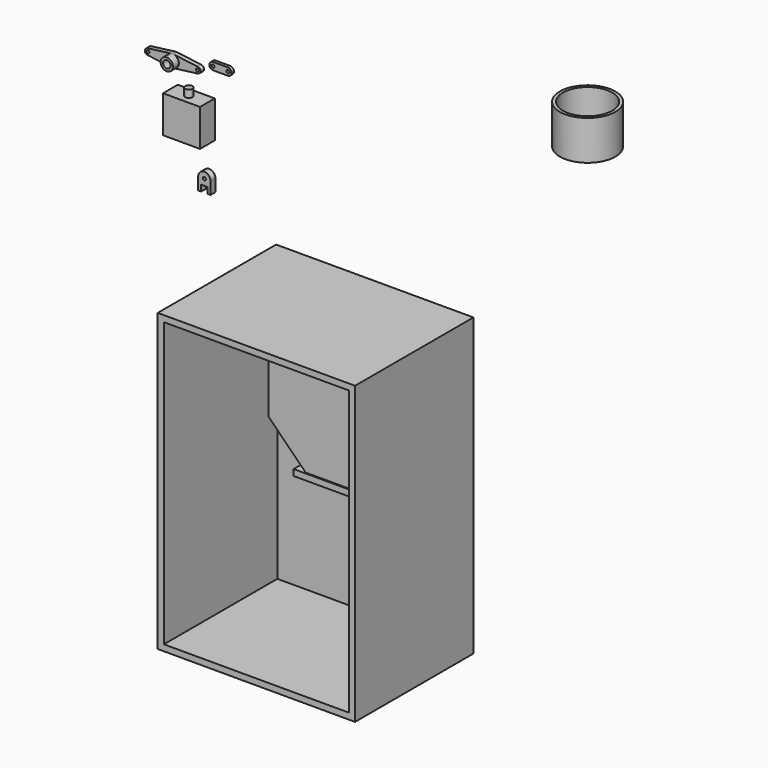
from build123d import *

# Parameters (mm, degrees)
F0_W      = 101.6
F0_H      = 152.4
F1_DEPTH  = 76.2
F2_T      = -3.175
F4_DEPTH  = 25.4
F5_T      = -2.54
F6_W      = 38.1
F6_H      = 3.175
F7_DEPTH  = 24.384
F9_DEPTH  = 3.175
F10_R     = 14.2875
F10_R_2   = 12.7
F11_DEPTH = 20.32
F12_R     = 0.79375
F13_DEPTH = 3.175
F14_W     = 19.05
F14_H     = 19.05
F15_DEPTH = 9.525
F16_R     = 1.905
F17_DEPTH = 3.81
F19_DEPTH = 2.286
F20_D     = 1.524
F21_R     = 3.175
F21_R_2   = 1.905
F22_DEPTH = 3.81
F23_R     = 0.79375
F24_DEPTH = 1.5875


with BuildPart() as f1:
    # F0 (on Front) → F1 (new body)
    with BuildSketch(Plane.XZ):
        with Locations((50.8, -76.2)):
            Rectangle(F0_W, F0_H)
    extrude(amount=F1_DEPTH)

    # F2
    f2_openings = [f1.faces().sort_by_distance(p)[0] for p in [
        (50.8, -76.2, -76.2),
    ]]
    offset(amount=F2_T, openings=f2_openings)


with BuildPart() as f4:
    # F3 (on face) → F4 (new body)
    with BuildSketch(Plane.XZ.offset(3.175)):
        Polygon((82.55, -28.575), (19.05, -28.575), (19.05, -60.325), (38.1, -79.375), (63.5, -79.375), (82.55, -60.325), align=None)
    extrude(amount=F4_DEPTH)

    # F5
    f5_openings = [f4.faces().sort_by_distance(p)[0] for p in [
        (50.8, -15.875, -28.575),
        (50.8, -15.875, -79.375),
    ]]
    offset(amount=F5_T, openings=f5_openings)


with BuildPart() as f7:
    # F6 (on face) → F7 (new body)
    with BuildSketch(Plane.XZ.offset(3.175)):
        with Locations((50.1062323436, -82.0561125875)):
            Rectangle(F6_W, F6_H)
    extrude(amount=F7_DEPTH)

    # F8 (on face) → F9 (cut, through all)
    with BuildSketch(Plane(origin=(0, 0, -83.6436125875), x_dir=(1, 0, 0), z_dir=(0, 0, -1))):
        Polygon((69.1562323436, 3.175), (69.1562323436, 27.559), (59.6312323436, 15.367), align=None)
    extrude(amount=-F9_DEPTH, mode=Mode.SUBTRACT)


with BuildPart() as f11:
    # F10 (on Top) → F11 (new body)
    with BuildSketch(Plane.XY):
        with Locations((44.4413982332, 144.9456810951)):
            Circle(F10_R)
        with Locations((44.4413982332, 144.9456810951)):
            Circle(F10_R_2, mode=Mode.SUBTRACT)
    extrude(amount=F11_DEPTH)


with BuildPart() as f13:
    # F12 (on Front) → F13 (new body)
    with BuildSketch(Plane.XZ):
        with BuildLine():
            Line((-37.6109989196, 19.9329089373), (-37.6109989196, 13.5829089373))
            Line((-37.6109989196, 13.5829089373), (-36.0234989196, 13.5829089373))
            Line((-36.0234989196, 13.5829089373), (-36.0234989196, 16.7579089373))
            Line((-36.0234989196, 16.7579089373), (-32.8484989196, 16.7579089373))
            Line((-32.8484989196, 16.7579089373), (-32.8484989196, 13.5829089373))
            Line((-32.8484989196, 13.5829089373), (-31.2609989196, 13.5829089373))
            Line((-31.2609989196, 13.5829089373), (-31.2609989196, 19.9329089373))
            ThreePointArc((-31.2609989196, 19.9329089373), (-34.4359989196, 23.1079089373), (-37.6109989196, 19.9329089373))
        make_face()
        with Locations((-34.4359989196, 19.9329089373)):
            Circle(F12_R, mode=Mode.SUBTRACT)
    extrude(amount=F13_DEPTH)


with BuildPart() as f15:
    # F14 (on Front) → F15 (new body)
    with BuildSketch(Plane.XZ):
        with Locations((-41.0984594887, 46.4677736163)):
            Rectangle(F14_W, F14_H)
    extrude(amount=F15_DEPTH)

    # F16 (on face) → F17 (join)
    with BuildSketch(Plane.XY.offset(55.9927736163)):
        with Locations((-41.0984594887, -4.7625)):
            Circle(F16_R)
    extrude(amount=F17_DEPTH)


with BuildPart() as f19:
    # F18 (on Front) → F19 (new body)
    with BuildSketch(Plane.XZ):
        with BuildLine():
            ThreePointArc((-51.0360050717, 64.2980251566), (-49.0516300717, 65.3480577082), (-48.2578800717, 67.4481228114))
            ThreePointArc((-48.2578800717, 67.4481228114), (-49.0516300717, 69.5481879145), (-51.0360050717, 70.5982204661))
            ThreePointArc((-51.0360050717, 70.5982204661), (-51.4328800717, 70.6231228114), (-51.8297550717, 70.5982204661))
            ThreePointArc((-51.8297550717, 70.5982204661), (-54.6078800717, 67.4481228114), (-51.8297550717, 64.2980251566))
            ThreePointArc((-51.8297550717, 64.2980251566), (-51.4328800717, 64.2731228114), (-51.0360050717, 64.2980251566))
        make_face()
        with BuildLine():
            ThreePointArc((-51.0360050717, 70.5982204661), (-49.0516300717, 69.5481879145), (-48.2578800717, 67.4481228114))
            ThreePointArc((-48.2578800717, 67.4481228114), (-49.0516300717, 65.3480577082), (-51.0360050717, 64.2980251566))
            Line((-51.0360050717, 64.2980251566), (-38.5344425717, 65.873073984))
            ThreePointArc((-38.5344425717, 65.873073984), (-40.3203800717, 67.4481228114), (-38.5344425717, 69.0231716387))
            Line((-38.5344425717, 69.0231716387), (-51.0360050717, 70.5982204661))
        make_face()
        with BuildLine():
            ThreePointArc((-51.8297550717, 64.2980251566), (-54.6078800717, 67.4481228114), (-51.8297550717, 70.5982204661))
            Line((-51.8297550717, 70.5982204661), (-64.3313175717, 69.0231716387))
            ThreePointArc((-64.3313175717, 69.0231716387), (-63.0828475201, 68.6387478114), (-62.5453800717, 67.4481228114))
            ThreePointArc((-62.5453800717, 67.4481228114), (-63.0828475201, 66.2574978114), (-64.3313175717, 65.873073984))
            Line((-64.3313175717, 65.873073984), (-51.8297550717, 64.2980251566))
        make_face()
        with BuildLine():
            ThreePointArc((-37.1453800717, 67.4481228114), (-37.5422550717, 68.4981553629), (-38.5344425717, 69.0231716387))
            ThreePointArc((-38.5344425717, 69.0231716387), (-40.3203800717, 67.4481228114), (-38.5344425717, 65.873073984))
            ThreePointArc((-38.5344425717, 65.873073984), (-37.5422550717, 66.3980902598), (-37.1453800717, 67.4481228114))
        make_face()
        with BuildLine():
            ThreePointArc((-62.5453800717, 67.4481228114), (-63.0828475201, 68.6387478114), (-64.3313175717, 69.0231716387))
            ThreePointArc((-64.3313175717, 69.0231716387), (-65.7203800717, 67.4481228114), (-64.3313175717, 65.873073984))
            ThreePointArc((-64.3313175717, 65.873073984), (-63.0828475201, 66.2574978114), (-62.5453800717, 67.4481228114))
        make_face()
    extrude(amount=F19_DEPTH)

    # F20 (through all)
    with Locations(Plane(origin=(0, 0, 0), x_dir=(1, 0, 0), z_dir=(0, 1, 0))):
        with Locations((-64.1328800717, -67.4481228114), (-38.7328800717, -67.4481228114)):
            Hole(F20_D / 2)

    # F21 (on face) → F22 (join)
    with BuildSketch(Plane.XZ.offset(2.286)):
        with Locations((-51.4328800717, 67.4481228114)):
            Circle(F21_R)
        with Locations((-51.4328800717, 67.4481228114)):
            Circle(F21_R_2, mode=Mode.SUBTRACT)
    extrude(amount=F22_DEPTH)


with BuildPart() as f24:
    # F23 (on Front) → F24 (new body)
    with BuildSketch(Plane.XZ):
        with BuildLine():
            ThreePointArc((-31.2125041177, 69.491771592), (-29.8654656996, 70.0497331738), (-29.3075041177, 71.396771592))
            ThreePointArc((-29.3075041177, 71.396771592), (-29.8654656996, 72.7438100101), (-31.2125041177, 73.301771592))
            ThreePointArc((-31.2125041177, 73.301771592), (-33.1175041177, 71.396771592), (-31.2125041177, 69.491771592))
        make_face()
        with Locations((-31.2125041177, 71.396771592)):
            Circle(F23_R, mode=Mode.SUBTRACT)
        with BuildLine():
            ThreePointArc((-31.2125041177, 73.301771592), (-29.8654656996, 72.7438100101), (-29.3075041177, 71.396771592))
            ThreePointArc((-29.3075041177, 71.396771592), (-29.8654656996, 70.0497331738), (-31.2125041177, 69.491771592))
            Line((-31.2125041177, 69.491771592), (-23.5925041177, 69.491771592))
            ThreePointArc((-23.5925041177, 69.491771592), (-25.4975041177, 71.396771592), (-23.5925041177, 73.301771592))
            Line((-23.5925041177, 73.301771592), (-31.2125041177, 73.301771592))
        make_face()
        with BuildLine():
            ThreePointArc((-21.6875041177, 71.396771592), (-22.2454656996, 72.7438100101), (-23.5925041177, 73.301771592))
            ThreePointArc((-23.5925041177, 73.301771592), (-25.4975041177, 71.396771592), (-23.5925041177, 69.491771592))
            ThreePointArc((-23.5925041177, 69.491771592), (-22.2454656996, 70.0497331738), (-21.6875041177, 71.396771592))
        make_face()
        with Locations((-23.5925041177, 71.396771592)):
            Circle(F23_R, mode=Mode.SUBTRACT)
    extrude(amount=F24_DEPTH)


solid = Compound([f1.part, f4.part, f7.part, f11.part, f13.part, f15.part, f19.part, f24.part])
